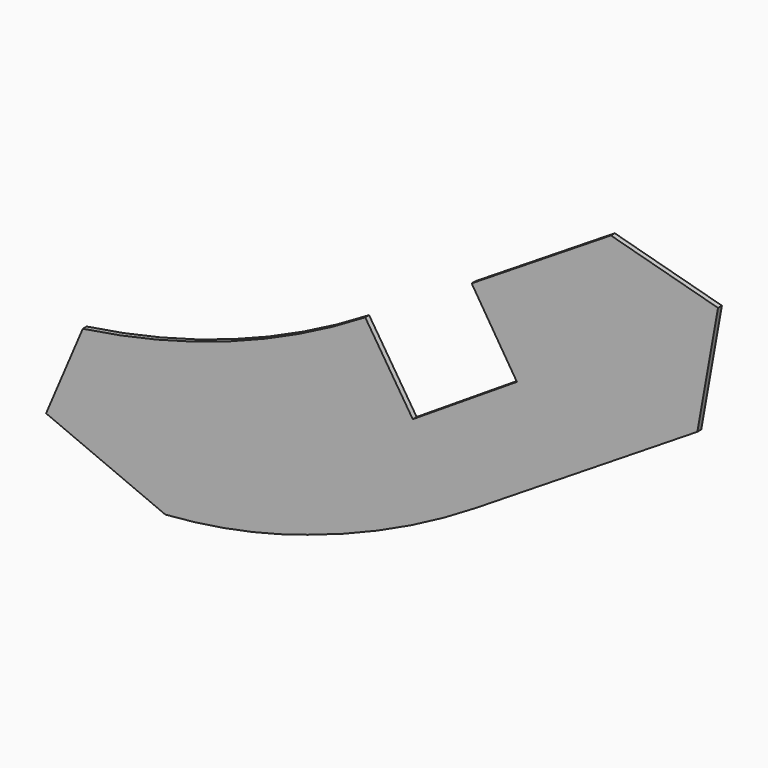
from build123d import *

# Parameters (mm, degrees)
F1_DEPTH = 3.175


with BuildPart() as f1:
    # F0 (on Front) → F1 (new body)
    with BuildSketch(Plane.XZ):
        with BuildLine():
            Line((104.396535, 90.096703), (13.390356, 32.948667))
            Line((13.390356, 32.948667), (42.94519, -14.116337))
            Line((42.94519, -14.116337), (-25.092393, -57.710502))
            Line((-25.092393, -57.710502), (-56.153374, -9.233508))
            ThreePointArc((-56.153374, -9.233508), (-145.049072, -51.949359), (-240.746647, -75.804405))
            Line((-240.746647, -75.804405), (-264.73163, -132.277189))
            Line((-264.73163, -132.277189), (-186.807424, -165.186733))
            ThreePointArc((-186.807424, -165.186733), (-139.761043, -158.818381), (-93.888566, -146.585897))
            ThreePointArc((-93.888566, -146.585897), (-37.108318, -124.341266), (16.458784, -95.197044))
            Line((16.458784, -95.197044), (160.896108, -4.496505))
            Line((160.896108, -4.496505), (174.411028, 71.191943))
            Line((174.411028, 71.191943), (104.396535, 90.096703))
        make_face()
    extrude(amount=F1_DEPTH)


solid = f1.part
